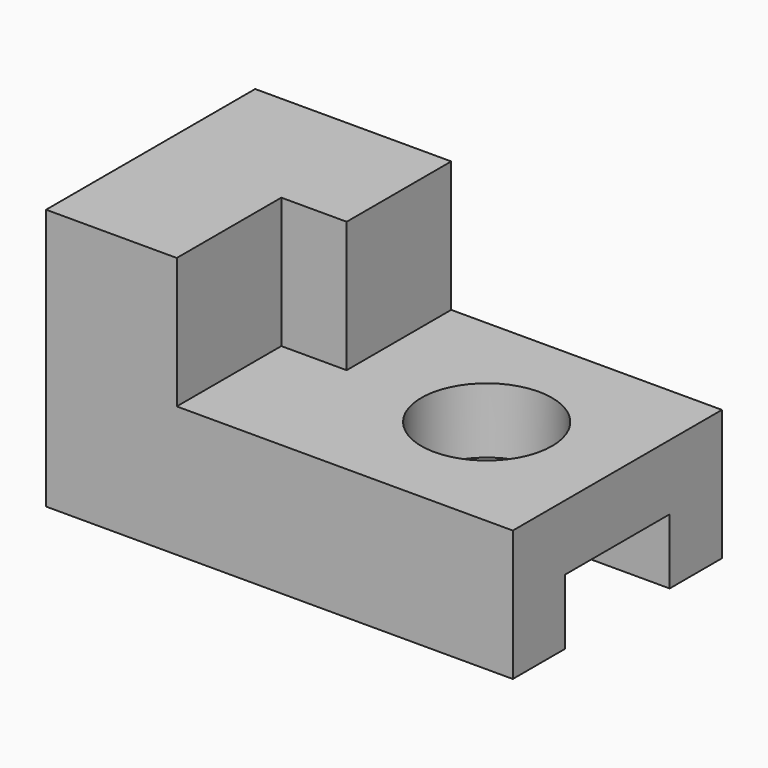
from build123d import *

# Parameters (mm, degrees)
SKETCH_W        = 50
SKETCH_H        = 28
PAD_DEPTH       = 14
SKETCH001_W     = 14
SKETCH001_H     = 7
POCKET_DEPTH    = 50.001
SKETCH002_R     = 7
POCKET001_DEPTH = 14.001
PAD001_DEPTH    = 14


with BuildPart() as part:
    # Sketch → Pad (new body)
    with BuildSketch(Plane.XY):
        Rectangle(SKETCH_W, SKETCH_H)
    extrude(amount=PAD_DEPTH)

    # Sketch001 (on Face3 of Pad) → Pocket (cut, through all)
    with BuildSketch(Plane.YZ.offset(25)):
        with Locations((0, 3.5)):
            Rectangle(SKETCH001_W, SKETCH001_H)
    extrude(amount=-POCKET_DEPTH, mode=Mode.SUBTRACT)

    # Sketch002 (on Face8 of Pocket) → Pocket001 (cut, through all)
    with BuildSketch(Plane.XY.offset(14)):
        with Locations((11, 0)):
            Circle(SKETCH002_R)
    extrude(amount=-POCKET001_DEPTH, mode=Mode.SUBTRACT)

    # Sketch003 (on Face8 of Pocket001) → Pad001 (join)
    with BuildSketch(Plane.XY.offset(14)):
        Polygon((-25, 14), (-4, 14), (-4, 0), (-11, 0), (-11, -14), (-25, -14), align=None)
    extrude(amount=PAD001_DEPTH)


solid = part.part
